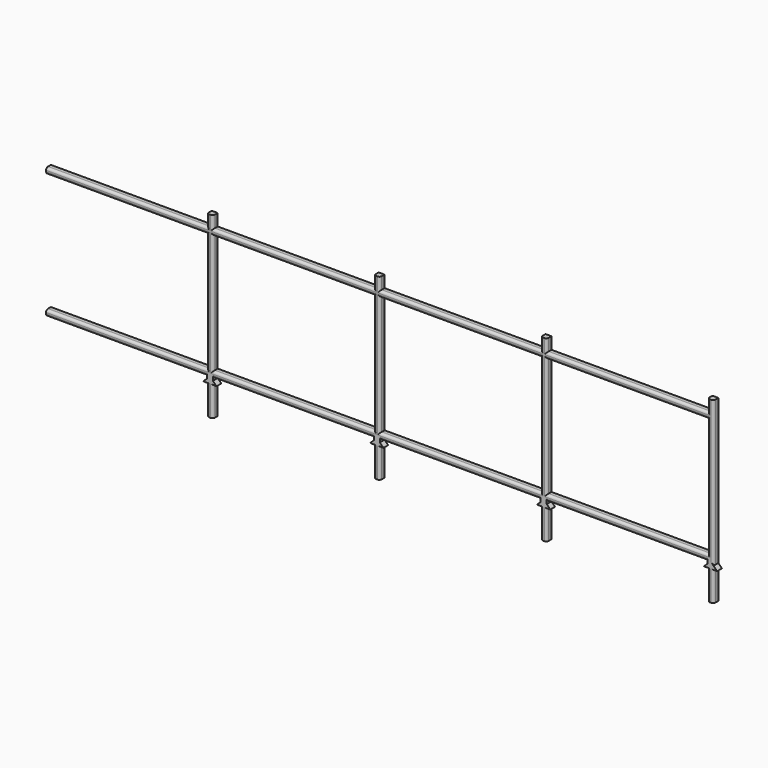
from build123d import *

# Parameters (mm, degrees)
F1_DEPTH = 1.27
F2_R     = 0.508


with BuildPart() as f1:
    # F0 (on Front) → F1 (new body)
    with BuildSketch(Plane.XZ):
        Polygon((-8.3281235051, 34.2946868681), (-8.3281235051, 35.56), (-8.3281235051, 38.1), (-9.5981235051, 38.1), (-9.5981235051, 35.56), (-43.8881235051, 35.56), (-43.8881235051, 34.2946868681), (-9.5981235051, 34.2946868681), (-9.5981235051, 8.8946868681), (-43.8881235051, 8.8946868681), (-43.8881235051, 7.6246868681), (-9.5981235051, 7.6246868681), (-9.5981235051, 7.1166868681), (-10.4112418222, 6.35), (-9.5981235051, 6.35), (-9.5981235051, 0), (-8.3281235051, 0), (-8.3281235051, 6.35), (-7.5661235051, 6.35), (-8.3281235051, 7.1166868681), (-8.3281235051, 7.6246868681), (-8.3281235051, 8.8946868681), align=None)
        Polygon((27.2318764949, 34.2946868681), (27.2318764949, 35.56), (27.2318764949, 38.1), (25.9618764949, 38.1), (25.9618764949, 35.56), (-8.3281235051, 35.56), (-8.3281235051, 34.2946868681), (25.9618764949, 34.2946868681), (25.9618764949, 8.8946868681), (-8.3281235051, 8.8946868681), (-8.3281235051, 7.6246868681), (25.9618764949, 7.6246868681), (25.9618764949, 7.1166868681), (25.1487581778, 6.35), (25.9618764949, 6.35), (25.9618764949, 0), (27.2318764949, 0), (27.2318764949, 6.35), (27.9938764949, 6.35), (27.2318764949, 7.1166868681), (27.2318764949, 7.6246868681), (27.2318764949, 8.8946868681), align=None)
        Polygon((62.7918764949, 34.2946868681), (62.7918764949, 35.56), (62.7918764949, 38.1), (61.5218764949, 38.1), (61.5218764949, 35.56), (27.2318764949, 35.56), (27.2318764949, 34.2946868681), (61.5218764949, 34.2946868681), (61.5218764949, 8.8946868681), (27.2318764949, 8.8946868681), (27.2318764949, 7.6246868681), (61.5218764949, 7.6246868681), (61.5218764949, 7.1166868681), (60.7087581778, 6.35), (61.5218764949, 6.35), (61.5218764949, 0), (62.7918764949, 0), (62.7918764949, 6.35), (63.5538764949, 6.35), (62.7918764949, 7.1166868681), (62.7918764949, 7.6246868681), (62.7918764949, 8.8946868681), align=None)
        Polygon((98.3518764949, 7.1166868681), (98.3518764949, 38.1), (97.0818764949, 38.1), (97.0818764949, 35.56), (62.7918764949, 35.56), (62.7918764949, 34.2946868681), (97.0818764949, 34.2946868681), (97.0818764949, 8.8946868681), (62.7918764949, 8.8946868681), (62.7918764949, 7.6246868681), (97.0818764949, 7.6246868681), (97.0818764949, 7.1166868681), (96.2687581778, 6.35), (97.0818764949, 6.35), (97.0818764949, 0), (98.3518764949, 0), (98.3518764949, 6.35), (99.1138764949, 6.35), align=None)
    extrude(amount=F1_DEPTH)

    # F2
    f2_edges = [f1.edges().sort_by_distance(p)[0] for p in [
        (-26.743124, -1.27, 34.294687),
        (-26.743124, -1.27, 35.56),
        (-9.598124, -1.27, 21.594687),
        (-8.328124, -1.27, 21.594687),
        (-26.743124, -1.27, 8.894687),
        (-26.743124, -1.27, 7.624687),
        (-9.598124, -1.27, 36.83),
        (25.961876, -1.27, 36.83),
        (61.521876, -1.27, 36.83),
        (27.231876, -1.27, 36.83),
        (-8.328124, -1.27, 36.83),
        (8.816876, -1.27, 35.56),
        (8.816876, -1.27, 34.294687),
        (8.816876, -1.27, 8.894687),
        (8.816876, -1.27, 7.624687),
        (-8.328124, -1.27, 3.175),
        (27.231876, -1.27, 3.175),
        (62.791876, -1.27, 3.175),
        (44.376876, -1.27, 7.624687),
        (44.376876, -1.27, 8.894687),
        (44.376876, -1.27, 34.294687),
        (44.376876, -1.27, 35.56),
        (62.791876, -1.27, 36.83),
        (79.936876, -1.27, 35.56),
        (79.936876, -1.27, 34.294687),
        (62.791876, -1.27, 21.594687),
        (61.521876, -1.27, 21.594687),
        (79.936876, -1.27, 8.894687),
        (79.936876, -1.27, 7.624687),
        (61.521876, -1.27, 3.175),
        (25.961876, -1.27, 3.175),
        (27.231876, -1.27, 21.594687),
        (25.961876, -1.27, 21.594687),
        (-9.598124, -1.27, 3.175),
        (97.081876, -1.27, 36.83),
        (97.081876, -1.27, 21.594687),
        (98.351876, -1.27, 3.175),
        (98.351876, -1.27, 22.608343),
        (97.081876, -1.27, 3.175),
    ]]
    fillet(f2_edges, radius=F2_R)


solid = f1.part
